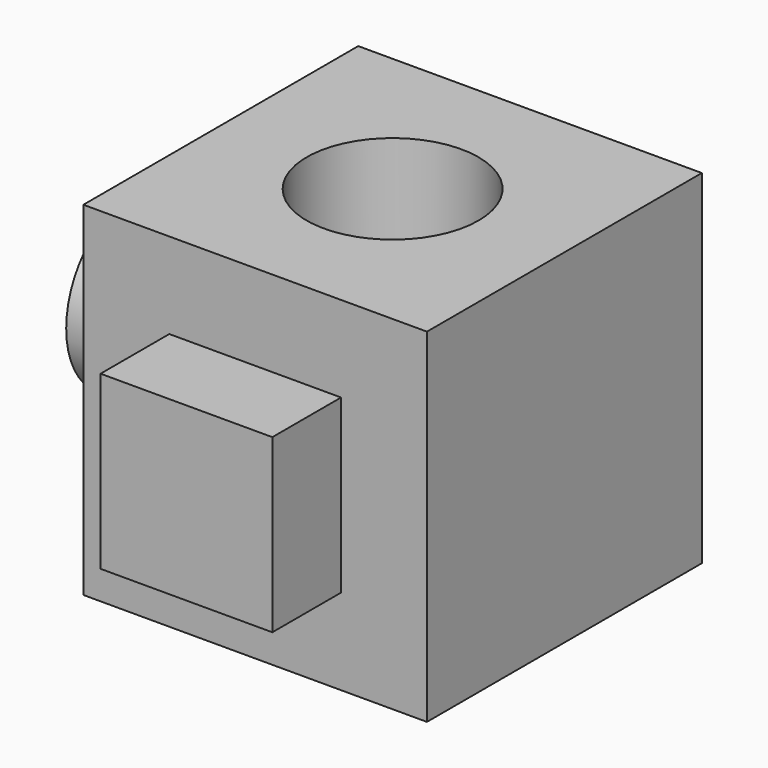
from build123d import *

# Parameters (mm, degrees)
F0_W     = 50.8
F0_H     = 50.8
F1_DEPTH = 50.8
F2_R     = 12.7
F3_DEPTH = 50.8
F4_W     = 25.4
F4_H     = 25.4
F5_DEPTH = 12.7
F6_R     = 12.7
F7_DEPTH = 12.7


with BuildPart() as f1:
    # F0 (on Front) → F1 (new body)
    with BuildSketch(Plane.XZ):
        with Locations((25.4, 25.4)):
            Rectangle(F0_W, F0_H)
    extrude(amount=F1_DEPTH)

    # F2 (on face) → F3 (cut)
    with BuildSketch(Plane(origin=(0, 0, 0), x_dir=(1, 0, 0), z_dir=(0, 0, -1))):
        with Locations((25.4, 25.4)):
            Circle(F2_R)
    extrude(amount=-F3_DEPTH, mode=Mode.SUBTRACT)

    # F4 (on face) → F5 (join)
    with BuildSketch(Plane.XZ.offset(50.8)):
        with Locations((25.4, 25.4)):
            Rectangle(F4_W, F4_H)
    extrude(amount=F5_DEPTH)

    # F6 (on face) → F7 (join)
    with BuildSketch(Plane(origin=(0, 0, 0), x_dir=(0, -1, 0), z_dir=(-1, 0, 0))):
        with Locations((25.4, 25.4)):
            Circle(F6_R)
    extrude(amount=F7_DEPTH)


solid = f1.part
